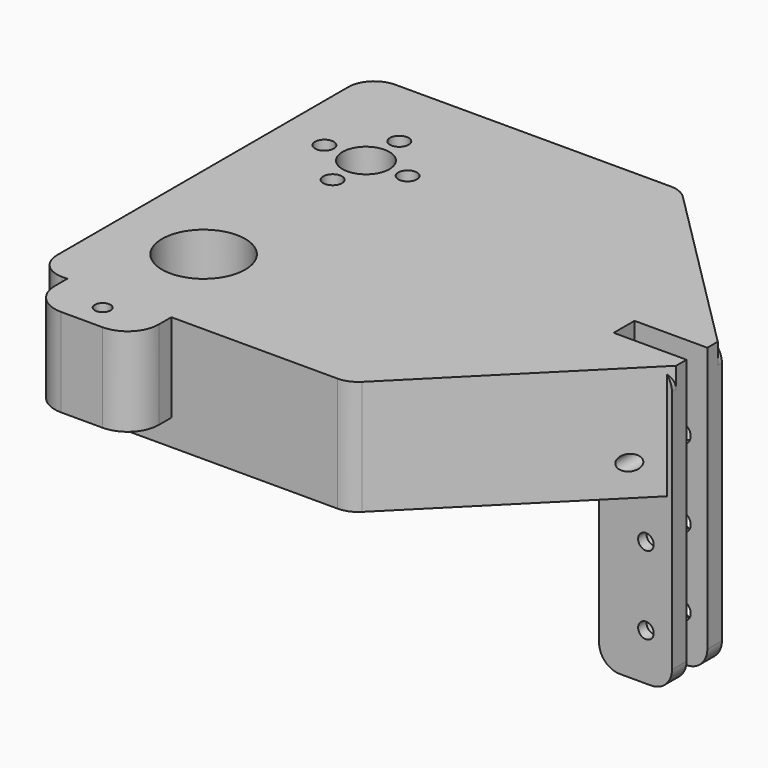
from build123d import *

# Parameters (mm, degrees)
CYLINDER038_R       = 1.8
CYLINDER038_DEPTH   = 20
ARRAY001017_COUNT   = 4
CYLINDER031_R       = 4.5
CYLINDER031_DEPTH   = 6
CYLINDER030_R       = 16
CYLINDER030_DEPTH   = 5
CYLINDER032_R       = 14.5
CYLINDER032_DEPTH   = 30
CYLINDER033_R       = 1.8
CYLINDER033_DEPTH   = 8
CYLINDER035_R       = 1.5
CYLINDER035_DEPTH   = 10
CYLINDER034_R       = 3.3
CYLINDER034_DEPTH   = 20
ARRAY001002_Z_COUNT = 3
ARRAY001002_Z_PITCH = 15
BOX006_W            = 14
BOX006_H            = 5
BOX006_DEPTH        = 55
CYLINDER017_R       = 8
CYLINDER017_DEPTH   = 24
BOX005_W            = 14
BOX005_H            = 12
BOX005_DEPTH        = 55
FILLET006_R         = 4
CYLINDER039_R       = 1.5
CYLINDER039_DEPTH   = 30
BOX018_W            = 20
BOX018_H            = 10
BOX018_DEPTH        = 17
FILLET007_R         = 6
BOX004_W            = 95
BOX004_H            = 80
BOX004_DEPTH        = 22
CHAMFER_SIZE        = 35
FILLET005_R         = 5


with BuildPart() as lead_nut_attachment_bolt_hole_array:
    # Cylinder038 → Cylinder038 (new body)
    with BuildSketch(Plane(origin=(0, -8, -5), x_dir=(1, 0, 0), z_dir=(0, 0, 1))):
        Circle(CYLINDER038_R)
    extrude(amount=CYLINDER038_DEPTH)

    # Array001017: lead nut attachment bolt hole array ×4 about axis
    array001017_axis = Axis((0, 0, 0), (0, 0, 1))


with BuildPart() as lead_nut_attachment_bolt_hole_array_1:
    add(lead_nut_attachment_bolt_hole_array.part)
    for i in range(1, ARRAY001017_COUNT):
        add(lead_nut_attachment_bolt_hole_array.part.rotate(array001017_axis, i * 360 / ARRAY001017_COUNT))


with BuildPart() as hole_fusion001:
    # Cylinder031 → Cylinder031 (new body)
    with BuildSketch(Plane.XY):
        Circle(CYLINDER031_R)
    extrude(amount=CYLINDER031_DEPTH)

    # Fusion009: union lead nut attachment bolt hole array
    add(lead_nut_attachment_bolt_hole_array_1.part)


with BuildPart() as lean_nut_attachment_clone:
    # Cylinder030 → Cylinder030 (new body)
    with BuildSketch(Plane.XY):
        Circle(CYLINDER030_R)
    extrude(amount=CYLINDER030_DEPTH)

    # Cut005: cut hole fusion001
    add(hole_fusion001.part, mode=Mode.SUBTRACT)


with BuildPart() as lean_nut_attachment_clone_1:
    # Body001 placement: moved
    add(lean_nut_attachment_clone.part.moved(Location((17, 58, 17))))


with BuildPart() as backlash_nut_disk_hole:
    # Cylinder032 → Cylinder032 (new body)
    with BuildSketch(Plane(origin=(17, 58, -5), x_dir=(1, 0, 0), z_dir=(0, 0, 1))):
        Circle(CYLINDER032_R)
    extrude(amount=CYLINDER032_DEPTH)


with BuildPart() as attachment_hole001:
    # Cylinder033 → Cylinder033 (new body)
    with BuildSketch(Plane(origin=(0, 0, 0), x_dir=(1, 0, 0), z_dir=(0, 1, 0))):
        Circle(CYLINDER033_R)
    extrude(amount=CYLINDER033_DEPTH)


with BuildPart() as screwed_hole:
    # Cylinder035 → Cylinder035 (new body)
    with BuildSketch(Plane(origin=(0, -10, 0), x_dir=(1, 0, 0), z_dir=(0, 1, 0))):
        Circle(CYLINDER035_R)
    extrude(amount=CYLINDER035_DEPTH)


with BuildPart() as attachment_hole_array001:
    # Cylinder034 → Cylinder034 (new body)
    with BuildSketch(Plane(origin=(0, 8, 0), x_dir=(1, 0, 0), z_dir=(0, 1, 0))):
        Circle(CYLINDER034_R)
    extrude(amount=CYLINDER034_DEPTH)

    # Fusion013: union attachment hole001, screwed hole
    add(attachment_hole001.part)
    add(screwed_hole.part)

    # Array001002 Z: attachment hole array001 ×3


with BuildPart() as attachment_hole_array001_1:
    add(attachment_hole_array001.part)
    with Locations(*[(0, 0, i * ARRAY001002_Z_PITCH) for i in range(1, ARRAY001002_Z_COUNT)]):
        add(attachment_hole_array001.part)


with BuildPart() as attachment_hole_array001_2:
    # Array001002 placement: moved
    add(attachment_hole_array001_1.part.moved(Location((90, 36, -24))))


with BuildPart() as top_attachment_connector_extract:
    # Box006 → Box006 (new body)
    with BuildSketch(Plane(origin=(81, 37.5, -33), x_dir=(1, 0, 0), z_dir=(0, 0, 1))):
        with Locations((7, 2.5)):
            Rectangle(BOX006_W, BOX006_H)
    extrude(amount=BOX006_DEPTH)


with BuildPart() as obj1:
    # Cylinder017 → Cylinder017 (new body)
    with BuildSketch(Plane(origin=(17, 19, 0), x_dir=(1, 0, 0), z_dir=(0, 0, 1))):
        Circle(CYLINDER017_R)
    extrude(amount=CYLINDER017_DEPTH)

    # Fusion010: union backlash nut disk hole, attachment hole array001, top_attachment_connector_extract
    add(backlash_nut_disk_hole.part)
    add(attachment_hole_array001_2.part)
    add(top_attachment_connector_extract.part)


with BuildPart() as top_attachment_connector_fillet:
    # Box005 → Box005 (new body)
    with BuildSketch(Plane(origin=(81, 34, -33), x_dir=(1, 0, 0), z_dir=(0, 0, 1))):
        with Locations((7, 6)):
            Rectangle(BOX005_W, BOX005_H)
    extrude(amount=BOX005_DEPTH)

    # Fillet006
    fillet006_edges = [top_attachment_connector_fillet.edges().sort_by_distance(p)[0] for p in [
        (81, 40, 22),
        (81, 40, -33),
        (95, 40, 22),
        (95, 40, -33),
    ]]
    fillet(fillet006_edges, radius=FILLET006_R)


with BuildPart() as obj2:
    # Cylinder039 → Cylinder039 (new body)
    with BuildSketch(Plane(origin=(10, 5, 0), x_dir=(1, 0, 0), z_dir=(0, 0, 1))):
        Circle(CYLINDER039_R)
    extrude(amount=CYLINDER039_DEPTH)


with BuildPart() as obj3:
    # Box018 → Box018 (new body)
    with BuildSketch(Plane.XY):
        with Locations((10, 5)):
            Rectangle(BOX018_W, BOX018_H)
    extrude(amount=BOX018_DEPTH)

    # Fillet007
    fillet007_edges = [obj3.edges().sort_by_distance(p)[0] for p in [
        (0, 0, 8.5),
        (20, 0, 8.5),
    ]]
    fillet(fillet007_edges, radius=FILLET007_R)

    # Cut014: cut obj2
    add(obj2.part, mode=Mode.SUBTRACT)


with BuildPart() as obj3_1:
    # Cut014 placement: moved
    add(obj3.part.moved(Location((6, -9, 5))))


with BuildPart() as obj4:
    # Box004 → Box004 (new body)
    with BuildSketch(Plane.XY):
        with Locations((47.5, 40)):
            Rectangle(BOX004_W, BOX004_H)
    extrude(amount=BOX004_DEPTH)

    # Chamfer
    chamfer_edges = [obj4.edges().sort_by_distance(p)[0] for p in [
        (95, 0, 11),
        (95, 80, 11),
    ]]
    chamfer(chamfer_edges, length=CHAMFER_SIZE)

    # Fillet005
    fillet005_edges = [obj4.edges().sort_by_distance(p)[0] for p in [
        (60, 0, 11),
        (60, 80, 11),
        (0, 80, 11),
        (0, 0, 11),
    ]]
    fillet(fillet005_edges, radius=FILLET005_R)

    # Fusion012: union top attachment connector fillet, obj3
    add(top_attachment_connector_fillet.part)
    add(obj3_1.part)

    # Cut006: cut obj1
    add(obj1.part, mode=Mode.SUBTRACT)

    # Fusion011: union lean nut attachment clone
    add(lean_nut_attachment_clone_1.part)


with BuildPart() as obj4_1:
    # Fusion011 placement: moved
    add(obj4.part.moved(Location((13, 0, 50))))


solid = obj4_1.part
